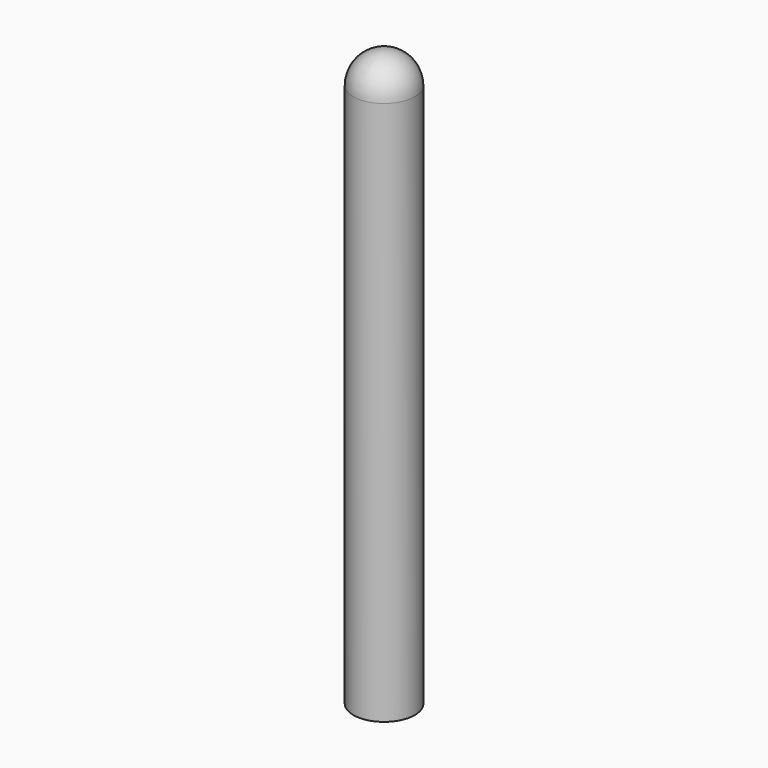
from build123d import *

# Parameters (mm, degrees)
F0_R     = 7.5
F0_R_2   = 6
F1_DEPTH = 133


with BuildPart() as f1:
    # F0 (on Top) → F1 (new body)
    with BuildSketch(Plane.XY):
        Circle(F0_R)
        Circle(F0_R_2, mode=Mode.SUBTRACT)
    extrude(amount=F1_DEPTH)

    # F2 (on Right) → F3 (revolve)
    with BuildSketch(Plane.YZ):
        with BuildLine():
            ThreePointArc((0, 140.5), (-5.303301, 138.303301), (-7.5, 133))
            Line((-7.5, 133), (-7, 133))
            Line((-7, 133), (-6, 133))
            ThreePointArc((-6, 133), (-4.242641, 137.242641), (0, 139))
            Line((0, 139), (0, 140))
            Line((0, 140), (0, 140.5))
        make_face()
    revolve(axis=Axis((0, 0, 0), (0, 0, -1)))


solid = f1.part
